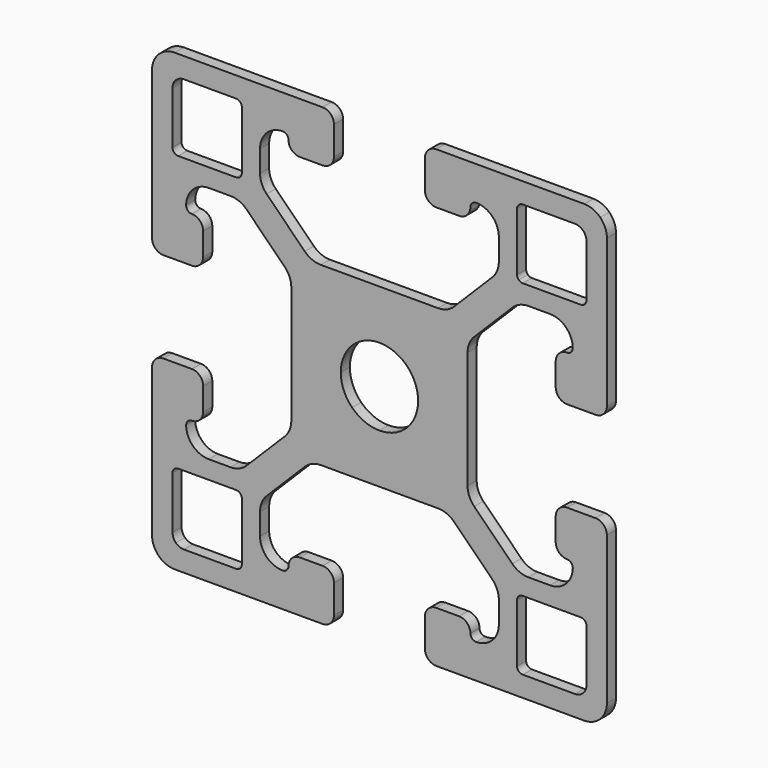
from build123d import *

# Parameters (mm, degrees)
F1_DEPTH = 1


with BuildPart() as f1:
    # F0 (on Front) → F1 (new body)
    with BuildSketch(Plane.XZ):
        with BuildLine():
            ThreePointArc((-19.4142135624, 19.4142135624), (-19.847759065, 18.7653668647), (-20, 18))
            Line((-20, 18), (-20, 5))
            ThreePointArc((-20, 5), (-19.7071067812, 4.2928932188), (-19, 4))
            Line((-19, 4), (-16.5, 4))
            ThreePointArc((-16.5, 4), (-15.7928932188, 4.2928932188), (-15.5, 5))
            Line((-15.5, 5), (-15.5, 7))
            ThreePointArc((-15.5, 7), (-15.7928932188, 7.7071067812), (-16.5, 8))
            ThreePointArc((-16.5, 8), (-16.8535533906, 8.1464466094), (-17, 8.5))
            ThreePointArc((-17, 8.5), (-16.4142135624, 9.9142135624), (-15, 10.5))
            Line((-15, 10.5), (-13.0961940777, 10.5))
            ThreePointArc((-13.0961940777, 10.5), (-12.330827213, 10.347759065), (-11.6819805153, 9.9142135624))
            Line((-11.6819805153, 9.9142135624), (-8.3357864376, 6.5680194847))
            ThreePointArc((-8.3357864376, 6.5680194847), (-7.902240935, 5.919172787), (-7.75, 5.1538059223))
            Line((-7.75, 5.1538059223), (-7.75, 0))
            Line((-7.75, 0), (-3.4, 0))
            ThreePointArc((-3.4, 0), (-3.1411904105, 1.30112367), (-2.404163056, 2.404163056))
            Line((-2.404163056, 2.404163056), (-12.2464466094, 12.2464466094))
            ThreePointArc((-12.2464466094, 12.2464466094), (-12.4086582838, 12.1380602337), (-12.6, 12.1))
            Line((-12.6, 12.1), (-17.7, 12.1))
            ThreePointArc((-17.7, 12.1), (-18.0535533906, 12.2464466094), (-18.2, 12.6))
            Line((-18.2, 12.6), (-18.2, 17.2))
            ThreePointArc((-18.2, 17.2), (-18.1238795325, 17.5826834324), (-17.9071067812, 17.9071067812))
            Line((-17.9071067812, 17.9071067812), (-19.4142135624, 19.4142135624))
        make_face()
    extrude(amount=F1_DEPTH)

    # F2: F1 across face


with BuildPart() as f1_1:
    add(f1.part)
    add(f1.part.mirror(Plane(origin=(-7.3253048327, -0.5, 7.3253048327), x_dir=(0, 1, 0), z_dir=(0.7071067812, 0, 0.7071067812))))

    # F3: F1 across face


with BuildPart() as f1_2:
    add(f1_1.part)
    add(f1_1.part.mirror(Plane(origin=(-5.575, -0.5, 0), x_dir=(1, 0, 0), z_dir=(0, 0, -1))))

    # F4: F1 across face


with BuildPart() as f1_3:
    add(f1_2.part)
    add(f1_2.part.mirror(Plane(origin=(0, -0.5, 5.575), x_dir=(0, 1, 0), z_dir=(1, 0, 0))))


solid = f1_3.part
